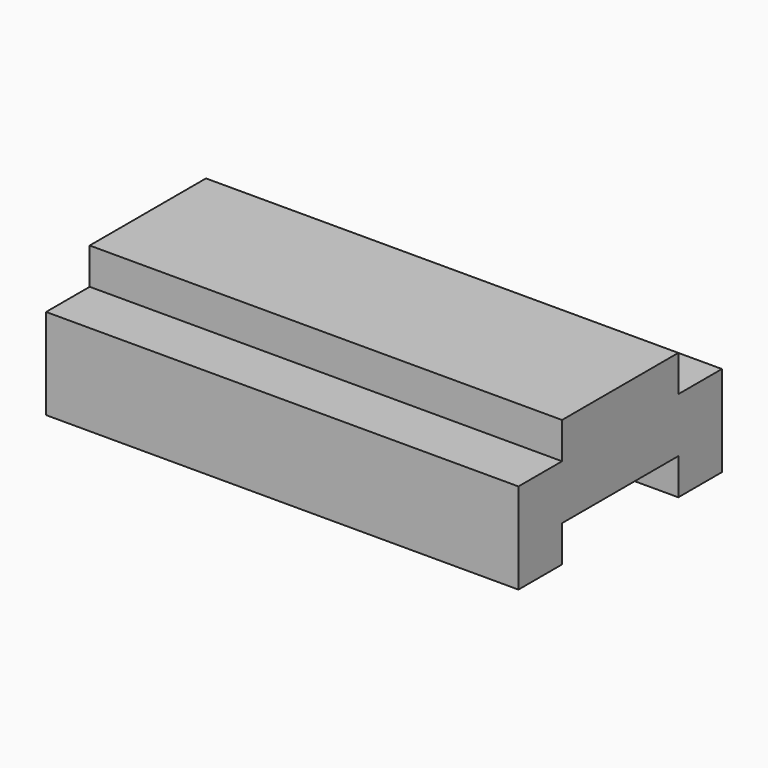
from build123d import *

# Parameters (mm, degrees)
F0_W     = 88.9
F0_H     = 44.45
F1_DEPTH = 165.1
F2_W     = 19.05
F2_H     = 12.7
F2_W_2   = 50.8
F3_DEPTH = 165.1


with BuildPart() as f1:
    # F0 (on Right) → F1 (new body)
    with BuildSketch(Plane.YZ):
        Rectangle(F0_W, F0_H)
    extrude(amount=F1_DEPTH)

    # F2 (on face) → F3 (cut)
    with BuildSketch(Plane.YZ.offset(165.1)):
        with Locations((-34.925, 15.875)):
            Rectangle(F2_W, F2_H)
        with Locations((34.925, 15.875)):
            Rectangle(F2_W, F2_H)
        with Locations((0, -15.875)):
            Rectangle(F2_W_2, F2_H)
    extrude(amount=-F3_DEPTH, mode=Mode.SUBTRACT)


solid = f1.part
